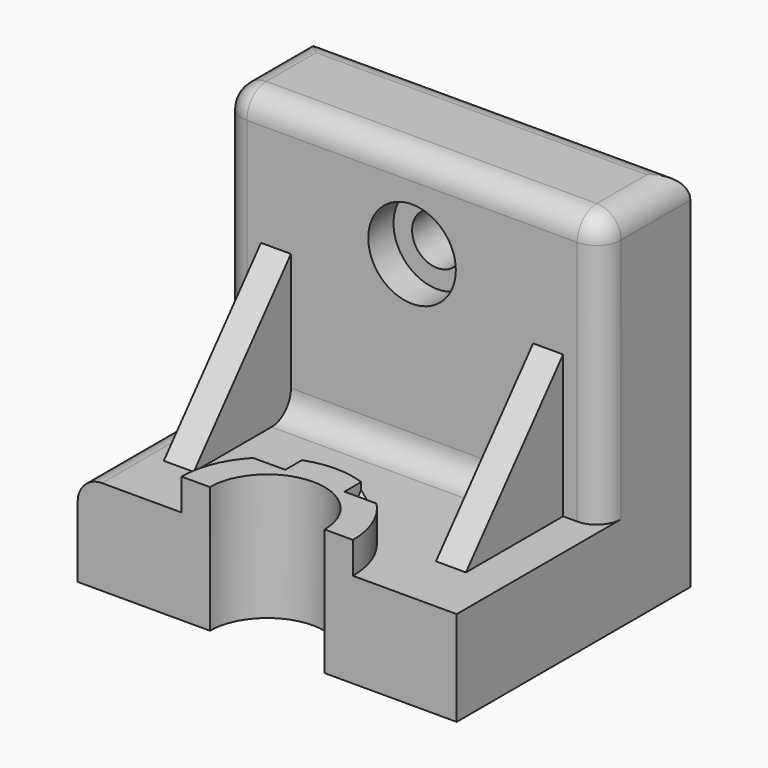
from build123d import *

# Parameters (mm, degrees)
F1_DEPTH  = 79.248
F2_W      = 6.267937
F2_H      = 29.795837
F3_DEPTH  = 25.4
F4_DEPTH  = 25.4
F6_DEPTH  = 25.4
F7_DEPTH  = 6.604
F9_DEPTH  = 25.4
F11_DEPTH = 25.4
F2_R      = 5.269734
F12_DEPTH = 25.4
F2_R_2    = 9.158021
F13_DEPTH = 6.604
F14_R     = 5.08


with BuildPart() as f1:
    # F0 (on Right) → F1 (new body)
    with BuildSketch(Plane.YZ):
        Polygon((33.579409, 56.474458), (10.37909, 56.474458), (10.37909, 0), (-27.474059, 0), (-27.474059, -19.842375), (33.579409, -19.842375), align=None)
        Polygon((33.579409, 56.474458), (10.37909, 56.474458), (10.37909, 0), (-27.474059, 0), (-27.474059, -19.842375), (33.579409, -19.842375), align=None)
    extrude(amount=F1_DEPTH)

    # F2 (on face) → F3 (join)
    with BuildSketch(Plane.XZ.offset(-10.37909)):
        with Locations((11.170426, 14.897918)):
            Rectangle(F2_W, F2_H)
    extrude(amount=F3_DEPTH)

    # F2 (on face) → F4 (join)
    with BuildSketch(Plane.XZ.offset(-10.37909)):
        with Locations((68.077574, 14.897918)):
            Rectangle(F2_W, F2_H)
    extrude(amount=F4_DEPTH)

    # F5 (on face) → F6 (cut)
    with BuildSketch(Plane.XY):
        with BuildLine():
            ThreePointArc((51.611442, -27.474059), (39.624, -15.486617), (27.636558, -27.474059))
            Line((27.636558, -27.474059), (51.611442, -27.474059))
        make_face()
    extrude(amount=-F6_DEPTH, mode=Mode.SUBTRACT)

    # F5 (on face) → F7 (join)
    with BuildSketch(Plane.XY):
        with BuildLine():
            Line((21.696024, -27.474059), (27.636558, -27.474059))
            ThreePointArc((27.636558, -27.474059), (39.624, -15.486617), (51.611442, -27.474059))
            Line((51.611442, -27.474059), (57.551976, -27.474059))
            ThreePointArc((57.551976, -27.474059), (39.624, -9.546082), (21.696024, -27.474059))
        make_face()
    extrude(amount=F7_DEPTH)

    # F8 (on face) → F9 (cut)
    with BuildSketch(Plane.YZ.offset(71.211543)):
        Polygon((-15.02091, 0), (10.37909, 29.795837), (-15.02091, 29.795837), align=None)
    extrude(amount=-F9_DEPTH, mode=Mode.SUBTRACT)

    # F10 (on face) → F11 (cut)
    with BuildSketch(Plane(origin=(8.036457, 0, 0), x_dir=(0, -1, 0), z_dir=(-1, 0, 0))):
        Polygon((15.02091, 29.795837), (-10.37909, 29.795837), (15.02091, 0), align=None)
    extrude(amount=-F11_DEPTH, mode=Mode.SUBTRACT)

    # F2 (on face) → F12 (cut)
    with BuildSketch(Plane.XZ.offset(-10.37909)):
        with Locations((39.624, 38.005784)):
            Circle(F2_R)
    extrude(amount=-F12_DEPTH, mode=Mode.SUBTRACT)

    # F2 (on face) → F13 (cut)
    with BuildSketch(Plane.XZ.offset(-10.37909)):
        with Locations((39.624, 38.005784)):
            Circle(F2_R_2)
        with Locations((39.624, 38.005784)):
            Circle(F2_R, mode=Mode.SUBTRACT)
    extrude(amount=-F13_DEPTH, mode=Mode.SUBTRACT)

    # F14
    f14_edges = [f1.edges().sort_by_distance(p)[0] for p in [
        (0, 21.97925, 56.474458),
        (79.248, 21.97925, 56.474458),
        (0, -8.547484, 0),
        (0, 10.37909, 28.237229),
        (39.624, 10.37909, 56.474458),
        (39.624, 33.579409, 56.474458),
        (79.248, 10.37909, 28.237229),
        (39.624, 10.37909, 0),
    ]]
    fillet(f14_edges, radius=F14_R)


solid = f1.part
